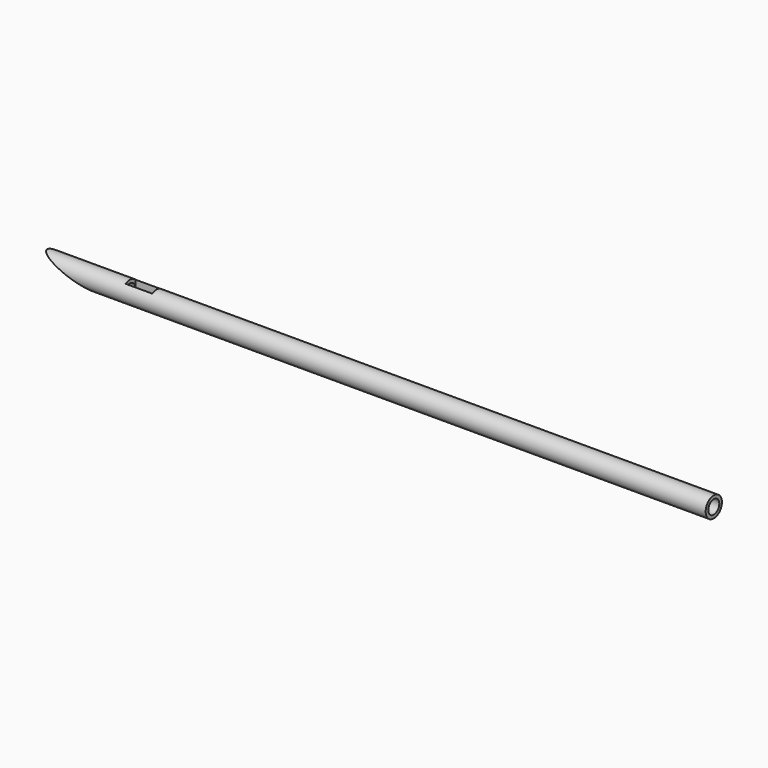
from build123d import *

# Parameters (mm, degrees)
F0_R     = 0.5335
F0_R_2   = 0.36
F1_DEPTH = 35
F3_DEPTH = 0.5345
F4_DEPTH = 0.5345
F5_W     = 1.4
F5_H     = 0.65
F6_DEPTH = 1


with BuildPart() as f1:
    # F0 (on Right) → F1 (new body)
    with BuildSketch(Plane.YZ):
        Circle(F0_R)
        Circle(F0_R_2, mode=Mode.SUBTRACT)
    extrude(amount=F1_DEPTH)

    # F2 (on Front) → F3 (cut, through all)
    with BuildSketch(Plane.XZ):
        Polygon((3, -0.574455), (0, 0.53833), (0, -0.574455), align=None)
    extrude(amount=-F3_DEPTH, mode=Mode.SUBTRACT)

    # F2 (on Front) → F4 (cut, through all)
    with BuildSketch(Plane.XZ):
        Polygon((3, -0.574455), (0, 0.53833), (0, -0.574455), align=None)
    extrude(amount=F4_DEPTH, mode=Mode.SUBTRACT)

    # F5 (on Top) → F6 (cut)
    with BuildSketch(Plane.XY):
        with Locations((5.05, 0.046142)):
            Rectangle(F5_W, F5_H)
    extrude(amount=F6_DEPTH, mode=Mode.SUBTRACT)


solid = f1.part
